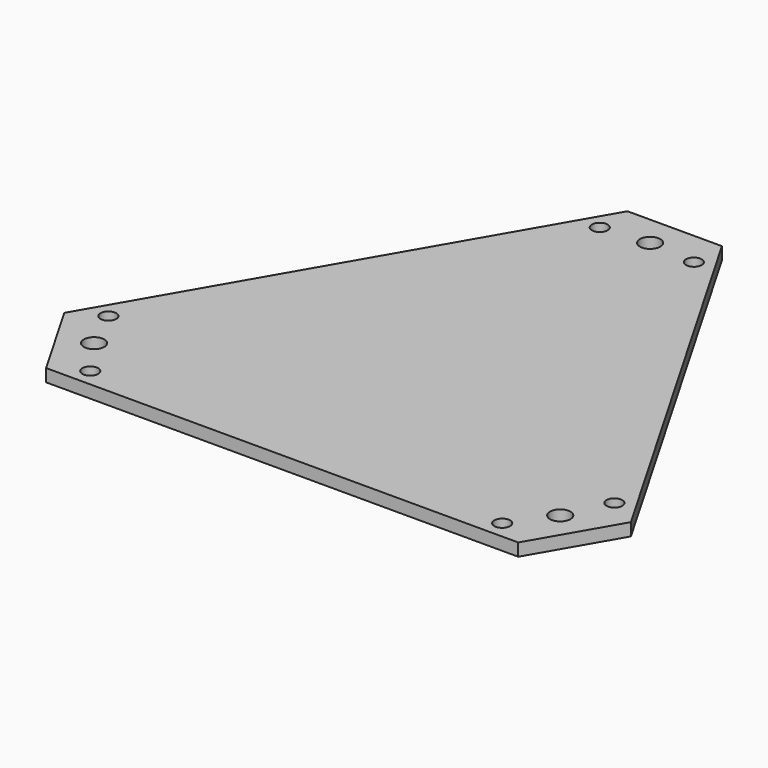
from build123d import *

# Parameters (mm, degrees)
F0_R     = 6.5
F0_R_2   = 5
F1_DEPTH = 8


with BuildPart() as f1:
    # F0 (on Top) → F1 (new body)
    with BuildSketch(Plane.XY):
        Polygon((-30, 190.525589), (-180, -69.282032), (-150, -121.243557), (150, -121.243557), (180, -69.282032), (30, 190.525589), align=None)
        with Locations((-148.090344, -85.5)):
            Circle(F0_R, mode=Mode.SUBTRACT)
        with Locations((-130.869151, -110.064823)):
            Circle(F0_R_2, mode=Mode.SUBTRACT)
        with Locations((-160.753508, -58.303598)):
            Circle(F0_R_2, mode=Mode.SUBTRACT)
        with Locations((130.869151, -110.064823)):
            Circle(F0_R_2, mode=Mode.SUBTRACT)
        with Locations((148.090344, -85.5)):
            Circle(F0_R, mode=Mode.SUBTRACT)
        with Locations((160.753508, -58.303598)):
            Circle(F0_R_2, mode=Mode.SUBTRACT)
        with Locations((-29.884357, 168.368421)):
            Circle(F0_R_2, mode=Mode.SUBTRACT)
        with Locations((0, 171)):
            Circle(F0_R, mode=Mode.SUBTRACT)
        with Locations((29.884357, 168.368421)):
            Circle(F0_R_2, mode=Mode.SUBTRACT)
    extrude(amount=F1_DEPTH)


solid = f1.part
